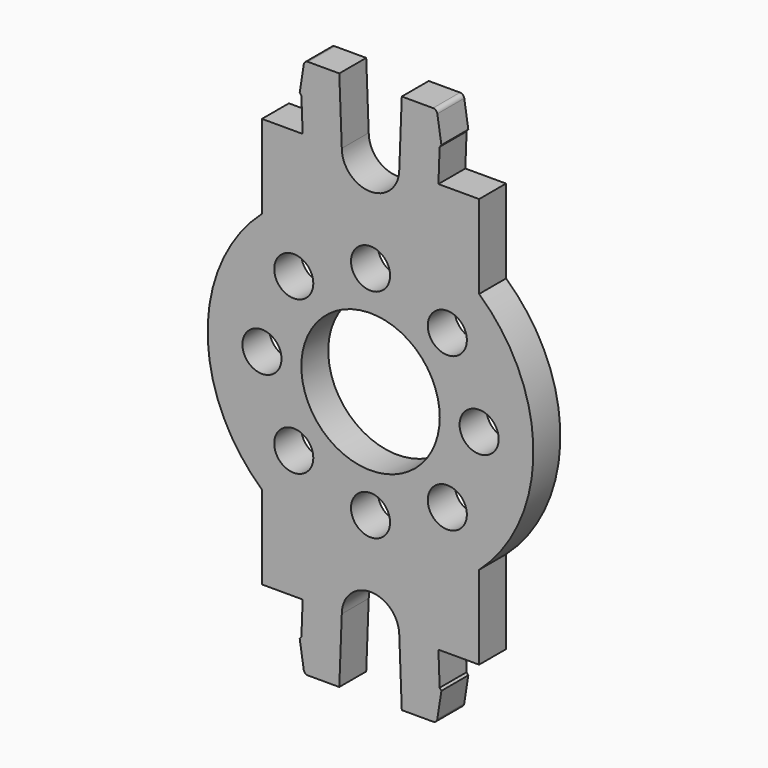
from build123d import *

# Parameters (mm, degrees)
F0_R     = 1.8
F0_R_2   = 6.375
F1_DEPTH = 3.1


with BuildPart() as f1:
    # F0 (on Front) → F1 (new body)
    with BuildSketch(Plane.XZ):
        with BuildLine():
            Line((-10, 18.875), (-10, 11.18034))
            ThreePointArc((-10, 11.18034), (-15, 0), (-10, -11.18034))
            Line((-10, -11.18034), (-10, -18.875))
            Line((-10, -18.875), (-6.25, -18.875))
            Line((-6.25, -18.875), (-6.367204, -21.925))
            Line((-6.367204, -21.925), (-6.525, -22.125))
            Line((-6.525, -22.125), (-6.152377, -24.536093))
            ThreePointArc((-6.152377, -24.536093), (-6.017418, -24.778675), (-5.75707, -24.875))
            Line((-5.75707, -24.875), (-2.877908, -24.875))
            Line((-2.877908, -24.875), (-2.647343, -18.875))
            ThreePointArc((-2.647343, -18.875), (0, -16.227657), (2.647343, -18.875))
            Line((2.647343, -18.875), (2.877908, -24.875))
            Line((2.877908, -24.875), (5.75707, -24.875))
            ThreePointArc((5.75707, -24.875), (6.017418, -24.778675), (6.152377, -24.536093))
            Line((6.152377, -24.536093), (6.525, -22.125))
            Line((6.525, -22.125), (6.367204, -21.925))
            Line((6.367204, -21.925), (6.25, -18.875))
            Line((6.25, -18.875), (10, -18.875))
            Line((10, -18.875), (10, -11.18034))
            ThreePointArc((10, -11.18034), (15, 0), (10, 11.18034))
            Line((10, 11.18034), (10, 18.875))
            Line((10, 18.875), (6.25, 18.875))
            Line((6.25, 18.875), (6.367204, 21.925))
            Line((6.367204, 21.925), (6.525, 22.125))
            Line((6.525, 22.125), (6.152377, 24.536093))
            ThreePointArc((6.152377, 24.536093), (6.017418, 24.778675), (5.75707, 24.875))
            Line((5.75707, 24.875), (2.877908, 24.875))
            Line((2.877908, 24.875), (2.647343, 18.875))
            ThreePointArc((2.647343, 18.875), (0, 16.227657), (-2.647343, 18.875))
            Line((-2.647343, 18.875), (-2.877908, 24.875))
            Line((-2.877908, 24.875), (-5.75707, 24.875))
            ThreePointArc((-5.75707, 24.875), (-6.017418, 24.778675), (-6.152377, 24.536093))
            Line((-6.152377, 24.536093), (-6.525, 22.125))
            Line((-6.525, 22.125), (-6.367204, 21.925))
            Line((-6.367204, 21.925), (-6.25, 18.875))
            Line((-6.25, 18.875), (-10, 18.875))
        make_face()
        with Locations((-7.071068, -7.071068)):
            Circle(F0_R, mode=Mode.SUBTRACT)
        with Locations((0, -10)):
            Circle(F0_R, mode=Mode.SUBTRACT)
        with Locations((7.071068, -7.071068)):
            Circle(F0_R, mode=Mode.SUBTRACT)
        with Locations((-10, 0)):
            Circle(F0_R, mode=Mode.SUBTRACT)
        with Locations((-7.071068, 7.071068)):
            Circle(F0_R, mode=Mode.SUBTRACT)
        Circle(F0_R_2, mode=Mode.SUBTRACT)
        with Locations((0, 10)):
            Circle(F0_R, mode=Mode.SUBTRACT)
        with Locations((7.071068, 7.071068)):
            Circle(F0_R, mode=Mode.SUBTRACT)
        with Locations((10, 0)):
            Circle(F0_R, mode=Mode.SUBTRACT)
    extrude(amount=F1_DEPTH)


solid = f1.part
